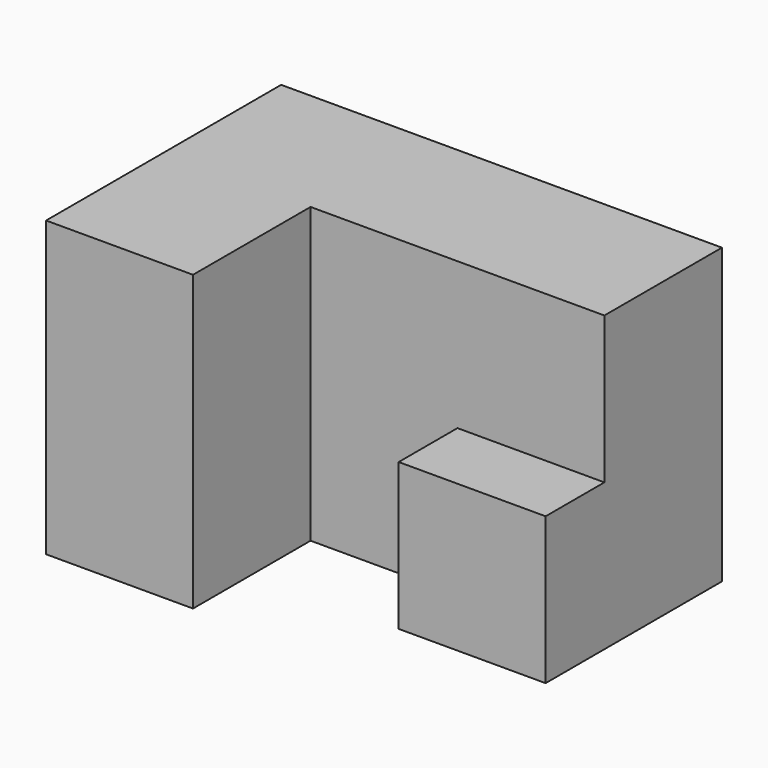
from build123d import *

# Parameters (mm, degrees)
F0_W     = 12.7
F0_H     = 12.7
F0_H_2   = 25.4
F1_DEPTH = 12.7
F2_DEPTH = 12.7
F3_DEPTH = 6.35


with BuildPart() as f1:
    # F0 (on Front) → F1 (new body)
    with BuildSketch(Plane.XZ):
        with Locations((12.7, 6.35)):
            Rectangle(F0_W, F0_H)
        Polygon((19.05, 25.4), (-6.35, 25.4), (-6.35, 0), (6.35, 0), (6.35, 12.7), (19.05, 12.7), align=None)
        with Locations((-12.7, 12.7)):
            Rectangle(F0_W, F0_H_2)
    extrude(amount=-F1_DEPTH)

    # F0 (on Front) → F2 (join)
    with BuildSketch(Plane.XZ):
        with Locations((-12.7, 12.7)):
            Rectangle(F0_W, F0_H_2)
    extrude(amount=F2_DEPTH)

    # F0 (on Front) → F3 (join)
    with BuildSketch(Plane.XZ):
        with Locations((12.7, 6.35)):
            Rectangle(F0_W, F0_H)
    extrude(amount=F3_DEPTH)


solid = f1.part
